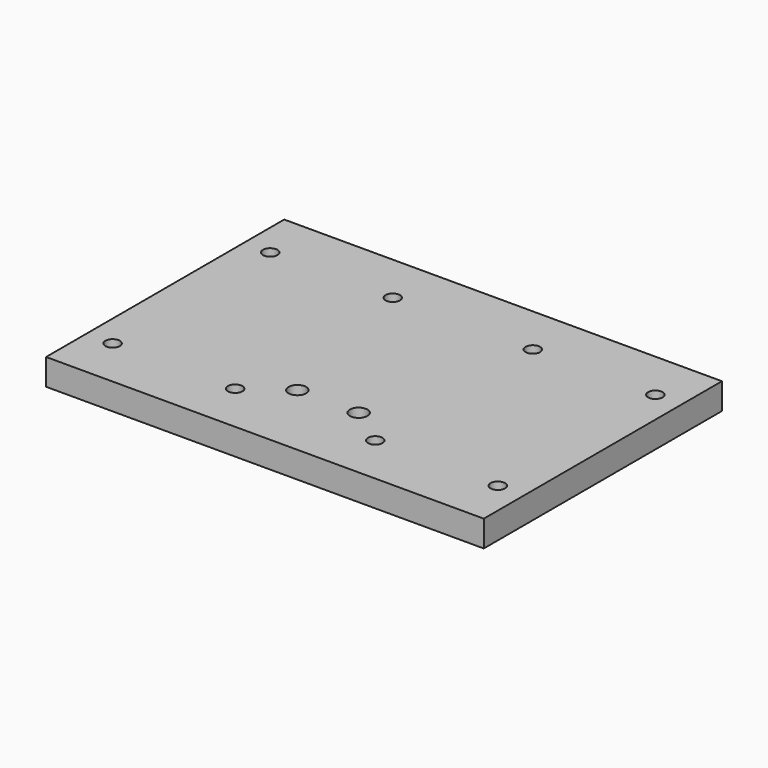
from build123d import *

# Parameters (mm, degrees)
F0_W     = 100
F0_H     = 68
F1_DEPTH = 6
F2_D     = 3.3
F3_D     = 4


with BuildPart() as f1:
    # F0 (on Top) → F1 (new body)
    with BuildSketch(Plane.XY):
        with Locations((-7.0588196459, -1.6911783814)):
            Rectangle(F0_W, F0_H)
    extrude(amount=-F1_DEPTH)

    # F2 (through all)
    with Locations(Plane.XY):
        with Locations((-51.0588196459, 20.8088216186), (-23.0588196459, 20.8088216186), (-51.0588196459, -24.1911783814), (-23.0588196459, -24.1911783814), (8.9411803541, 20.8088216186), (36.9411803541, 20.8088216186), (8.9411803541, -24.1911783814), (36.9411803541, -24.1911783814)):
            Hole(F2_D / 2)

    # F3 (through all)
    with Locations(Plane.XY):
        with Locations((-14.0588196459, -17.6911783814), (-0.0588196459, -17.6911783814)):
            Hole(F3_D / 2)


solid = f1.part
